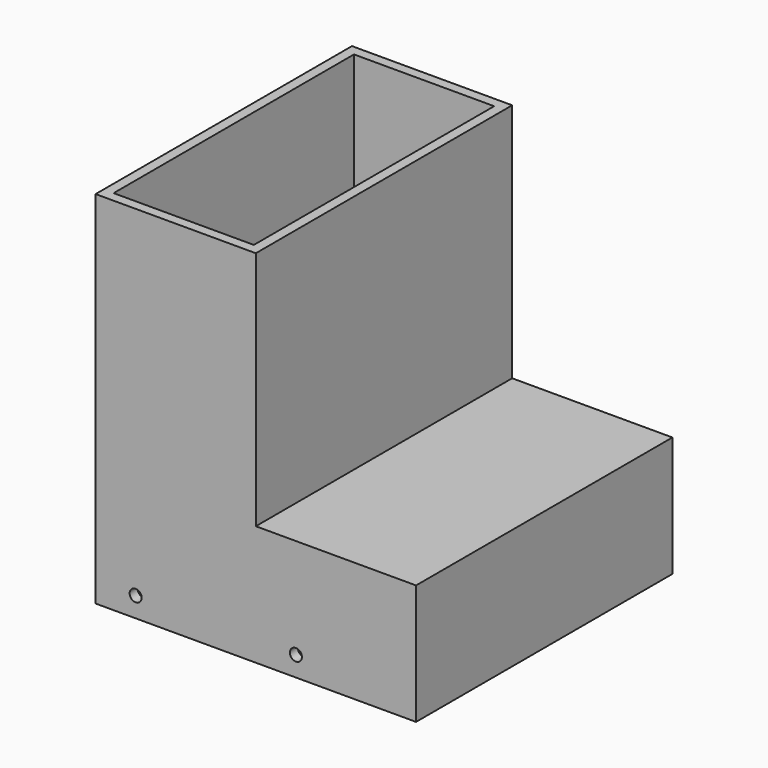
from build123d import *

# Parameters (mm, degrees)
F1_DEPTH = 101.6
F2_T     = -6.35
F3_W     = 88.9
F3_H     = 6.35
F4_DEPTH = 95.25
F5_R     = 3.81
F6_DEPTH = 25.4


with BuildPart() as f1:
    # F0 (on Front) → F1 (new body)
    with BuildSketch(Plane.XZ):
        Polygon((0, 0), (0, 152.4), (-101.6, 152.4), (-101.6, 0), (-101.6, -76.2), (101.6, -76.2), (101.6, 0), align=None)
    extrude(amount=F1_DEPTH)

    # F2
    f2_openings = [f1.faces().sort_by_distance(p)[0] for p in [
        (-50.8, -50.8, 152.4),
        (-25.4, 0, 19.05),
        (0, -50.8, -76.2),
    ]]
    offset(amount=F2_T, openings=f2_openings, kind=Kind.INTERSECTION)

    # F3 (on face) → F4 (join)
    with BuildSketch(Plane(origin=(0, -95.25, 0), x_dir=(-1, 0, 0), z_dir=(0, 1, 0))):
        with Locations((50.8, -3.175)):
            Rectangle(F3_W, F3_H)
    extrude(amount=F4_DEPTH)

    # F5 (on face) → F6 (cut)
    with BuildSketch(Plane.XZ.offset(101.6)):
        with Locations((-76.2, -63.5)):
            Circle(F5_R)
        with Locations((25.4, -63.5)):
            Circle(F5_R)
    extrude(amount=-F6_DEPTH, mode=Mode.SUBTRACT)

    # F7: F1 across face


with BuildPart() as f1_1:
    add(f1.part)
    add(f1.part.mirror(Plane(origin=(-23.9058823529, 0, 25.9602941176), x_dir=(1, 0, 0), z_dir=(0, 1, 0))))


solid = f1_1.part
